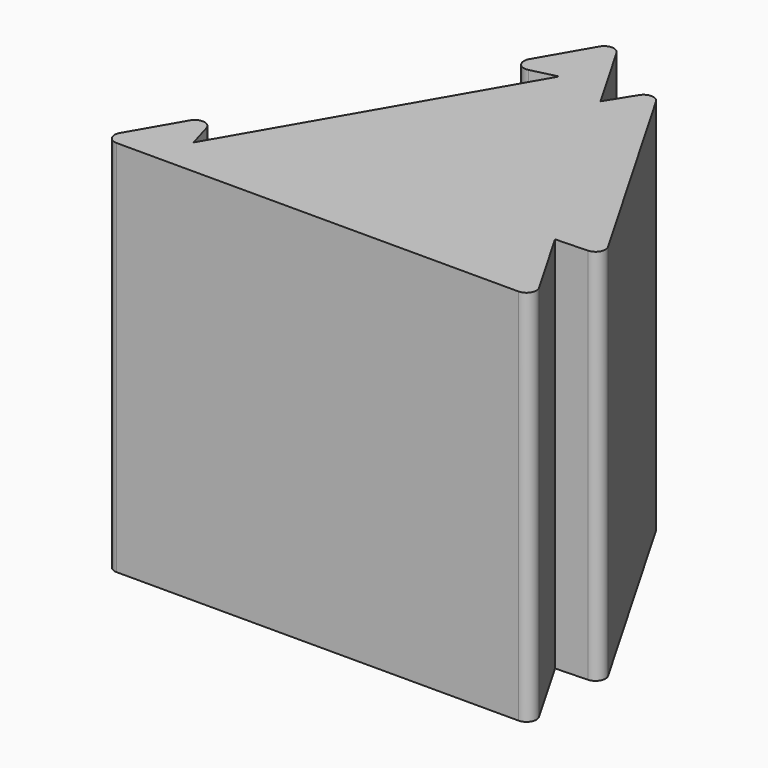
from build123d import *

# Parameters (mm, degrees)
F1_DEPTH = 38.1
F3_DEPTH = 38.101
F4_R     = 1
F6_DEPTH = 38.1
F7_R     = 1
F8_R     = 1


with BuildPart() as f1:
    # F0 (on Top) → F1 (new body)
    with BuildSketch(Plane.XY):
        Polygon((21.9970452561, 0), (0, 38.1), (-21.9970452561, 0), align=None)
    extrude(amount=F1_DEPTH)

    # F2 (on face) → F3 (cut, through all)
    with BuildSketch(Plane.XY.offset(38.1)):
        Polygon((-0.1427694591, 30.6260475565), (-5, 29.4397459622), (-16.9970452561, 8.6602540378), (-15.595797303, 3.8606182002), align=None)
    extrude(amount=-F3_DEPTH, mode=Mode.SUBTRACT)

    # F4
    f4_edges = [f1.edges().sort_by_distance(p)[0] for p in [
        (-5, 29.439746, 19.05),
        (-16.997045, 8.660254, 19.05),
    ]]
    fillet(f4_edges, radius=F4_R)

    # F5 (on face) → F6 (join, through all)
    with BuildSketch(Plane.XY.offset(38.1)):
        Polygon((7.6392122053, 33.5131891134), (5.05, 29.3531434218), (16.9470452561, 8.7468565782), (21.8443566086, 8.909157278), align=None)
    extrude(amount=-F6_DEPTH)

    # F7
    f7_edges = [f1.edges().sort_by_distance(p)[0] for p in [
        (7.639212, 33.513189, 19.05),
        (21.844357, 8.909157, 19.05),
    ]]
    fillet(f7_edges, radius=F7_R)

    # F8
    f8_edges = [f1.edges().sort_by_distance(p)[0] for p in [
        (0, 38.1, 19.05),
        (-21.997045, 0, 19.05),
        (21.997045, 0, 19.05),
    ]]
    fillet(f8_edges, radius=F8_R)


solid = f1.part
